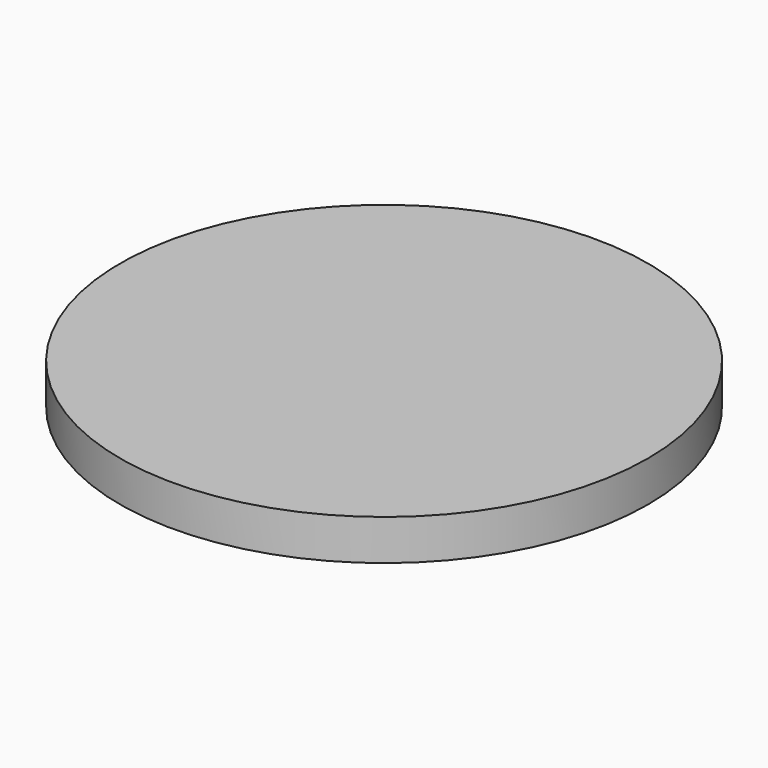
from build123d import *

# Parameters (mm, degrees)
F0_R     = 65
F1_DEPTH = 10
F2_R     = 2
F3_DEPTH = 8


with BuildPart() as f1:
    # F0 (on Top) → F1 (new body)
    with BuildSketch(Plane.XY):
        Circle(F0_R)
    extrude(amount=F1_DEPTH)

    # F2 (on face) → F3 (cut)
    with BuildSketch(Plane(origin=(0, 0, 0), x_dir=(1, 0, 0), z_dir=(0, 0, -1))):
        with Locations((0, 50)):
            Circle(F2_R)
        with Locations((50, 0)):
            Circle(F2_R)
        with Locations((0, -50)):
            Circle(F2_R)
        with Locations((-50, 0)):
            Circle(F2_R)
    extrude(amount=-F3_DEPTH, mode=Mode.SUBTRACT)


solid = f1.part
